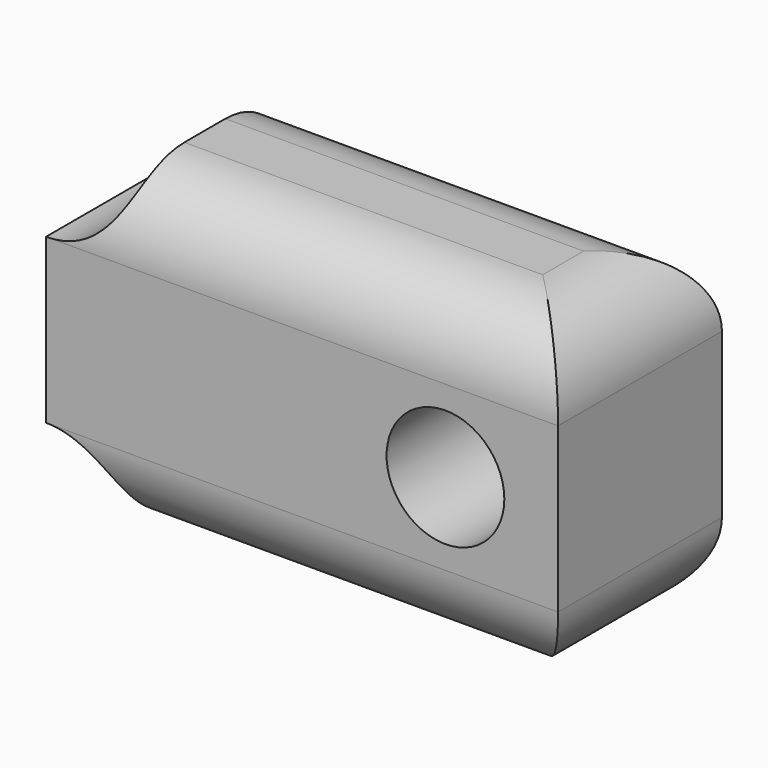
from build123d import *

# Parameters (mm, degrees)
F0_R     = 1.15
F1_DEPTH = 4
F2_R     = 1.5
F3_DEPTH = 5
F4_R     = 1.5


with BuildPart() as f1:
    # F0 (on Front) → F1 (new body)
    with BuildSketch(Plane.XZ):
        with BuildLine():
            Line((5, -3.1), (5, 3.1))
            Line((5, 3.1), (-3.5, 3.1))
            ThreePointArc((-3.5, 3.1), (-3.93934, 2.03934), (-5, 1.6))
            Line((-5, 1.6), (-5, -1.6))
            ThreePointArc((-5, -1.6), (-3.93934, -2.03934), (-3.5, -3.1))
            Line((-3.5, -3.1), (5, -3.1))
        make_face()
        with Locations((2.8, 0)):
            Circle(F0_R, mode=Mode.SUBTRACT)
    extrude(amount=F1_DEPTH)

    # F2 (on face) → F3 (cut)
    with BuildSketch(Plane(origin=(-5, 0, 0), x_dir=(0, -1, 0), z_dir=(-1, 0, 0))):
        with Locations((2, 0)):
            Circle(F2_R)
    extrude(amount=-F3_DEPTH, mode=Mode.SUBTRACT)

    # F4
    f4_edges = [f1.edges().sort_by_distance(p)[0] for p in [
        (5, -2, 3.1),
        (5, -2, -3.1),
        (0.75, 0, 3.1),
        (0.75, -4, 3.1),
        (0.75, -4, -3.1),
        (0.75, 0, -3.1),
    ]]
    fillet(f4_edges, radius=F4_R)


solid = f1.part
